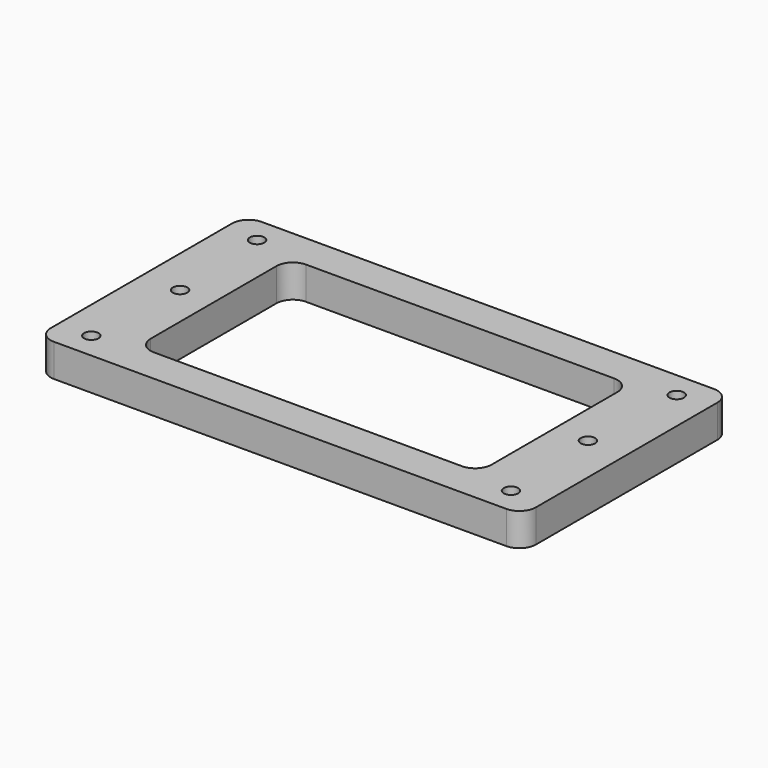
from build123d import *

# Parameters (mm, degrees)
F0_R     = 1.397
F1_DEPTH = 6.35


with BuildPart() as f1:
    # F0 (on Top) → F1 (new body)
    with BuildSketch(Plane.XY):
        with BuildLine():
            ThreePointArc((0, 3.175), (0.929936, 0.929936), (3.175, 0))
            Line((3.175, 0), (90.805, 0))
            ThreePointArc((90.805, 0), (93.050064, 0.929936), (93.98, 3.175))
            Line((93.98, 3.175), (93.98, 47.117))
            ThreePointArc((93.98, 47.117), (93.050064, 49.362064), (90.805, 50.292))
            Line((90.805, 50.292), (3.175, 50.292))
            ThreePointArc((3.175, 50.292), (0.929936, 49.362064), (0, 47.117))
            Line((0, 47.117), (0, 3.175))
        make_face()
        with Locations((6.35, 5.08)):
            Circle(F0_R, mode=Mode.SUBTRACT)
        with Locations((7.493, 25.146)):
            Circle(F0_R, mode=Mode.SUBTRACT)
        with BuildLine():
            Line((76.835, 6.731), (17.145, 6.731))
            ThreePointArc((17.145, 6.731), (14.899936, 7.660936), (13.97, 9.906))
            Line((13.97, 9.906), (13.97, 40.386))
            ThreePointArc((13.97, 40.386), (14.899936, 42.631064), (17.145, 43.561))
            Line((17.145, 43.561), (76.835, 43.561))
            ThreePointArc((76.835, 43.561), (79.080064, 42.631064), (80.01, 40.386))
            Line((80.01, 40.386), (80.01, 9.906))
            ThreePointArc((80.01, 9.906), (79.080064, 7.660936), (76.835, 6.731))
        make_face(mode=Mode.SUBTRACT)
        with Locations((87.63, 5.08)):
            Circle(F0_R, mode=Mode.SUBTRACT)
        with Locations((86.487, 25.146)):
            Circle(F0_R, mode=Mode.SUBTRACT)
        with Locations((6.35, 45.212)):
            Circle(F0_R, mode=Mode.SUBTRACT)
        with Locations((87.63, 45.212)):
            Circle(F0_R, mode=Mode.SUBTRACT)
    extrude(amount=F1_DEPTH)


solid = f1.part
